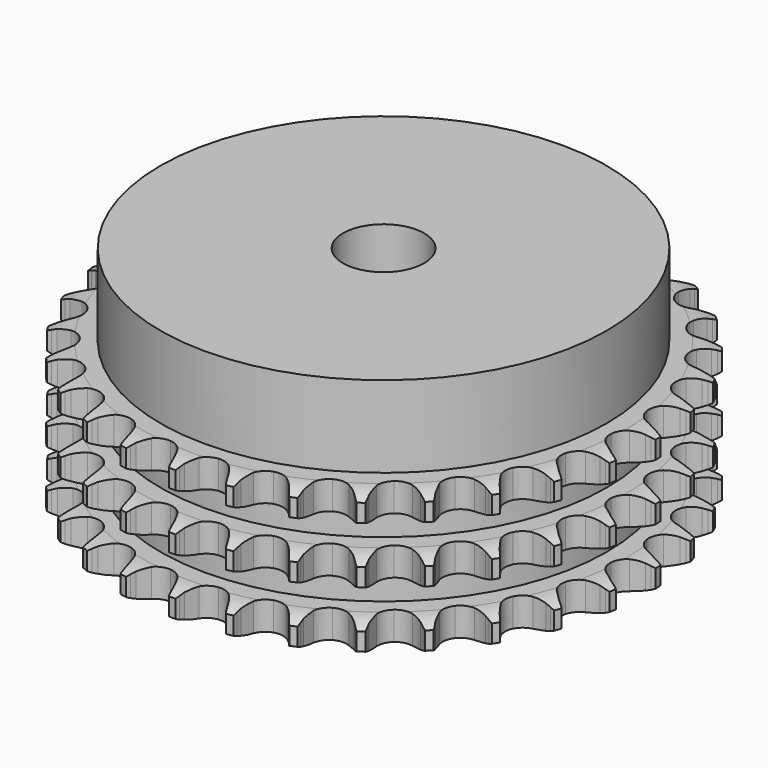
from build123d import *

# Parameters (mm, degrees)
PAD_DEPTH         = 34.9
SKETCH001_R       = 55
PAD001_DEPTH      = 55
SKETCH002_R       = 10
POCKET_DEPTH      = 0.001
POCKET_DEPTH_BACK = 55.001


with BuildPart() as part:
    # Sprocket → Pad (new body)
    with BuildSketch(Plane.XY):
        with BuildLine():
            ThreePointArc((-6.734861, 66.229298), (-5.950048, 65.186321), (-5.374824, 64.014634))
            Line((-5.374824, 64.014634), (-4.959758, 62.918621))
            ThreePointArc((-4.959758, 62.918621), (-4.301269, 61.492886), (-3.448535, 60.174109))
            ThreePointArc((-3.448535, 60.174109), (-1.927238, 58.906685), (0, 58.452308))
            ThreePointArc((0, 58.452308), (1.927238, 58.906685), (3.448535, 60.174109))
            ThreePointArc((3.448535, 60.174109), (4.301269, 61.492886), (4.959758, 62.918621))
            Line((4.959758, 62.918621), (5.374824, 64.014634))
            ThreePointArc((5.374824, 64.014634), (5.950048, 65.186321), (6.734861, 66.229298))
            ThreePointArc((6.734861, 66.229298), (7.293659, 65.049689), (7.62125, 63.786195))
            Line((7.62125, 63.786195), (7.807193, 62.629065))
            ThreePointArc((7.807193, 62.629065), (8.165206, 61.099962), (8.735016, 59.636526))
            ThreePointArc((8.735016, 59.636526), (9.970041, 58.088812), (11.766363, 57.255786))
            ThreePointArc((11.766363, 57.255786), (13.745616, 57.312912), (15.490902, 58.248156))
            Line((15.490902, 58.248156), (17.523657, 60.632281))
            ThreePointArc((17.523657, 60.632281), (17.824206, 61.135561), (18.150852, 61.622307))
            ThreePointArc((18.150852, 61.622307), (18.95016, 62.654217), (19.928858, 63.517862))
            ThreePointArc((19.928858, 63.517862), (20.238764, 62.249915), (20.305309, 60.946342))
            Line((20.305309, 60.946342), (20.254518, 59.775468))
            ThreePointArc((20.254518, 59.775468), (20.297395, 58.205599), (20.560954, 56.657417))
            ThreePointArc((20.560954, 56.657417), (21.459146, 54.892776), (23.05101, 53.715205))
            ThreePointArc((23.05101, 53.715205), (25.001247, 53.372741), (26.89907, 53.937518))
            Line((26.89907, 53.937518), (29.370135, 55.863649))
            ThreePointArc((29.370135, 55.863649), (29.765841, 56.296126), (30.183783, 56.707155))
            ThreePointArc((30.183783, 56.707155), (31.174451, 57.557042), (32.306965, 58.205998))
            ThreePointArc((32.306965, 58.205998), (32.355291, 56.901622), (32.158067, 55.611338))
            Line((32.158067, 55.611338), (31.87262, 54.474656))
            ThreePointArc((31.87262, 54.474656), (31.598607, 52.928291), (31.545125, 51.358747))
            ThreePointArc((31.545125, 51.358747), (32.06971, 49.449423), (33.391946, 47.975517))
            ThreePointArc((33.391946, 47.975517), (35.233323, 47.247484), (37.205987, 47.41867))
            Line((37.205987, 47.41867), (40.014197, 48.807952))
            ThreePointArc((40.014197, 48.807952), (40.488859, 49.151921), (40.980985, 49.470405))
            ThreePointArc((40.980985, 49.470405), (42.122455, 50.103475), (43.362421, 50.511174))
            ThreePointArc((43.362421, 50.511174), (43.147189, 49.223771), (42.694269, 47.999599))
            Line((42.694269, 47.999599), (42.185853, 46.943646))
            ThreePointArc((42.185853, 46.943646), (41.606169, 45.484093), (41.237834, 43.957443))
            ThreePointArc((41.237834, 43.957443), (41.367337, 41.981606), (42.365811, 40.271707))
            ThreePointArc((42.365811, 40.271707), (44.022944, 39.187909), (45.989686, 38.958497))
            Line((45.989686, 38.958497), (49.020072, 39.754051))
            ThreePointArc((49.020072, 39.754051), (49.554259, 39.995431), (50.100421, 40.208331))
            ThreePointArc((50.100421, 40.208331), (51.345962, 40.598666), (52.642614, 40.748416))
            ThreePointArc((52.642614, 40.748416), (52.172635, 39.530692), (51.482563, 38.422751))
            Line((51.482563, 38.422751), (50.771993, 37.490757))
            ThreePointArc((50.771993, 37.490757), (49.910368, 36.177771), (49.242261, 34.756517))
            ThreePointArc((49.242261, 34.756517), (48.97138, 32.795056), (49.605216, 30.919167))
            ThreePointArc((49.605216, 30.919167), (51.01026, 29.523977), (52.890563, 28.903359))
            Line((52.890563, 28.903359), (56.01906, 29.072616))
            ThreePointArc((56.01906, 29.072616), (56.590902, 29.201523), (57.16874, 29.300124))
            ThreePointArc((57.16874, 29.300124), (58.467358, 29.431743), (59.767612, 29.317414))
            ThreePointArc((59.767612, 29.317414), (59.062128, 28.219222), (58.163155, 27.272872))
            Line((58.163155, 27.272872), (57.279521, 26.502992))
            ThreePointArc((57.279521, 26.502992), (56.171232, 25.390326), (55.230705, 24.132655))
            ThreePointArc((55.230705, 24.132655), (54.57053, 22.265873), (54.813776, 20.300794))
            ThreePointArc((54.813776, 20.300794), (55.909209, 18.651329), (57.626093, 17.664913))
            Line((57.626093, 17.664913), (60.724621, 17.200944))
            ThreePointArc((60.724621, 17.200944), (61.310706, 17.212101), (61.896564, 17.192366))
            ThreePointArc((61.896564, 17.192366), (63.195094, 17.059881), (64.445718, 16.686152))
            ThreePointArc((64.445718, 16.686152), (63.533611, 15.752454), (62.46254, 15.006437))
            Line((62.46254, 15.006437), (61.442019, 14.430191))
            ThreePointArc((61.442019, 14.430191), (60.132439, 13.563399), (58.957997, 12.520799))
            ThreePointArc((58.957997, 12.520799), (57.935555, 10.825122), (57.778255, 8.851303))
            ThreePointArc((57.778255, 8.851303), (58.51923, 7.015094), (60.002404, 5.703264))
            Line((60.002404, 5.703264), (62.944109, 4.625063))
            ThreePointArc((62.944109, 4.625063), (63.520443, 4.518014), (64.090336, 4.38075))
            ThreePointArc((64.090336, 4.38075), (65.335616, 3.989585), (66.485408, 3.371758))
            ThreePointArc((66.485408, 3.371758), (65.40402, 2.640779), (64.204702, 2.125638))
            Line((64.204702, 2.125638), (63.089073, 1.766617))
            ThreePointArc((63.089073, 1.766617), (61.631816, 1.181184), (60.271541, 0.39634))
            ThreePointArc((60.271541, 0.39634), (58.928692, -1.05881), (58.377285, -2.960561))
            ThreePointArc((58.377285, -2.960561), (58.733466, -4.908339), (59.92221, -6.491877))
            Line((59.92221, -6.491877), (62.586658, -8.140168))
            ThreePointArc((62.586658, -8.140168), (63.129645, -8.361041), (63.660241, -8.610214))
            ThreePointArc((63.660241, -8.610214), (64.80129, -9.244045), (65.803178, -10.080676))
            ThreePointArc((65.803178, -10.080676), (64.59678, -10.579011), (63.318316, -10.842186))
            Line((63.318316, -10.842186), (62.153253, -10.969283))
            ThreePointArc((62.153253, -10.969283), (60.60798, -11.249388), (59.117562, -11.744345))
            ThreePointArc((59.117562, -11.744345), (57.509281, -12.899395), (56.586342, -14.651219))
            ThreePointArc((56.586342, -14.651219), (56.543147, -16.630825), (57.388794, -18.42124))
            Line((57.388794, -18.42124), (59.666901, -20.57214))
            ThreePointArc((59.666901, -20.57214), (60.154312, -20.897794), (60.623889, -21.248675))
            ThreePointArc((60.623889, -21.248675), (61.613991, -22.099222), (62.426958, -23.120406))
            ThreePointArc((62.426958, -23.120406), (61.144941, -23.365694), (59.83967, -23.366129))
            Line((59.83967, -23.366129), (58.672872, -23.256099))
            ThreePointArc((58.672872, -23.256099), (57.102846, -23.219409), (55.543303, -23.404216))
            ThreePointArc((55.543303, -23.404216), (53.735434, -24.211876), (52.478748, -25.742055))
            ThreePointArc((52.478748, -25.742055), (52.037945, -27.672443), (52.505874, -29.596436))
            Line((52.505874, -29.596436), (54.304375, -32.161886))
            ThreePointArc((54.304375, -32.161886), (54.716255, -32.578989), (55.105588, -33.017212))
            ThreePointArc((55.105588, -33.017212), (55.904208, -34.049655), (56.494971, -35.213584))
            ThreePointArc((56.494971, -35.213584), (55.189821, -35.195783), (53.911182, -34.93346))
            Line((53.911182, -34.93346), (52.790417, -34.590808))
            ThreePointArc((52.790417, -34.590808), (51.259915, -34.238825), (49.695094, -34.105915))
            ThreePointArc((49.695094, -34.105915), (47.761651, -34.533121), (46.222667, -35.779007))
            ThreePointArc((46.222667, -35.779007), (45.402303, -37.581148), (45.473357, -39.559949))
            Line((45.473357, -39.559949), (46.718621, -42.434921))
            ThreePointArc((46.718621, -42.434921), (47.038108, -42.926396), (47.331257, -43.434021))
            ThreePointArc((47.331257, -43.434021), (47.905701, -44.606091), (48.250073, -45.865114))
            ThreePointArc((48.250073, -45.865114), (46.975223, -45.584953), (45.775563, -45.070611))
            Line((45.775563, -45.070611), (44.746715, -44.509365))
            ThreePointArc((44.746715, -44.509365), (43.318396, -43.856499), (41.812362, -43.411313))
            ThreePointArc((41.812362, -43.411313), (39.832501, -43.440576), (38.074225, -44.351164))
            ThreePointArc((38.074225, -44.351164), (36.907886, -45.951276), (36.579155, -47.903874))
            Line((36.579155, -47.903874), (37.220201, -50.970665))
            ThreePointArc((37.220201, -50.970665), (37.434215, -51.516392), (37.61918, -52.072636))
            ThreePointArc((37.61918, -52.072636), (37.945928, -53.336348), (38.029811, -54.638921))
            ThreePointArc((38.029811, -54.638921), (36.837454, -54.107869), (35.765887, -53.362566))
            Line((35.765887, -53.362566), (34.871078, -52.605703))
            ThreePointArc((34.871078, -52.605703), (33.603418, -51.678683), (32.217828, -50.939448))
            ThreePointArc((32.217828, -50.939448), (30.272604, -50.569568), (28.36702, -51.107578))
            ThreePointArc((28.36702, -51.107578), (26.902456, -52.440153), (26.187399, -54.286609))
            Line((26.187399, -54.286609), (26.197982, -57.419664))
            ThreePointArc((26.197982, -57.419664), (26.297761, -57.9973), (26.366968, -58.579392))
            ThreePointArc((26.366968, -58.579392), (26.432645, -59.883009), (26.252605, -61.175804))
            ThreePointArc((26.252605, -61.175804), (25.191555, -60.415603), (24.291952, -59.469851))
            Line((24.291952, -59.469851), (23.567815, -58.548358))
            ThreePointArc((23.567815, -58.548358), (22.512712, -57.385135), (21.304291, -56.382115))
            ThreePointArc((21.304291, -56.382115), (19.473343, -55.628237), (17.498465, -55.771642))
            ThreePointArc((17.498465, -55.771642), (15.795636, -56.782125), (14.723527, -58.446844))
            Line((14.723527, -58.446844), (14.103215, -61.517895))
            ThreePointArc((14.103215, -61.517895), (14.084674, -62.103793), (14.03529, -62.6879))
            ThreePointArc((14.03529, -62.6879), (13.837206, -63.978053), (13.400614, -65.208142))
            ThreePointArc((13.400614, -65.208142), (12.514311, -64.249914), (11.823501, -63.142434))
            Line((11.823501, -63.142434), (11.299683, -62.094036))
            ThreePointArc((11.299683, -62.094036), (10.500332, -60.742234), (9.518555, -59.516492))
            ThreePointArc((9.518555, -59.516492), (7.876841, -58.409478), (5.913522, -58.152408))
            ThreePointArc((5.913522, -58.152408), (4.04214, -58.799429), (2.656872, -60.214257))
            Line((2.656872, -60.214257), (1.43106, -63.097576))
            ThreePointArc((1.43106, -63.097576), (1.294958, -63.667748), (1.129005, -64.229958))
            ThreePointArc((1.129005, -64.229958), (0.67527, -65.453827), (0, -66.570851))
            ThreePointArc((0, -66.570851), (-0.67527, -65.453827), (-1.129005, -64.229958))
            Line((-1.129005, -64.229958), (-1.43106, -63.097576))
            ThreePointArc((-1.43106, -63.097576), (-1.941932, -61.612538), (-2.656872, -60.214257))
            ThreePointArc((-2.656872, -60.214257), (-4.04214, -58.799429), (-5.913522, -58.152408))
            ThreePointArc((-5.913522, -58.152408), (-7.876841, -58.409478), (-9.518555, -59.516492))
            Line((-9.518555, -59.516492), (-11.299683, -62.094036))
            ThreePointArc((-11.299683, -62.094036), (-11.547773, -62.625139), (-11.823501, -63.142434))
            ThreePointArc((-11.823501, -63.142434), (-12.514311, -64.249914), (-13.400614, -65.208142))
            ThreePointArc((-13.400614, -65.208142), (-13.837206, -63.978053), (-14.03529, -62.6879))
            Line((-14.03529, -62.6879), (-14.103215, -61.517895))
            ThreePointArc((-14.103215, -61.517895), (-14.304693, -59.960418), (-14.723527, -58.446844))
            ThreePointArc((-14.723527, -58.446844), (-15.795636, -56.782125), (-17.498465, -55.771642))
            ThreePointArc((-17.498465, -55.771642), (-19.473343, -55.628237), (-21.304291, -56.382115))
            Line((-21.304291, -56.382115), (-23.567815, -58.548358))
            ThreePointArc((-23.567815, -58.548358), (-23.917738, -59.018649), (-24.291952, -59.469851))
            ThreePointArc((-24.291952, -59.469851), (-25.191555, -60.415603), (-26.252605, -61.175804))
            ThreePointArc((-26.252605, -61.175804), (-26.432645, -59.883009), (-26.366968, -58.579392))
            Line((-26.366968, -58.579392), (-26.197982, -57.419664))
            ThreePointArc((-26.197982, -57.419664), (-26.081819, -55.853511), (-26.187399, -54.286609))
            ThreePointArc((-26.187399, -54.286609), (-26.902456, -52.440153), (-28.36702, -51.107578))
            ThreePointArc((-28.36702, -51.107578), (-30.272604, -50.569568), (-32.217828, -50.939448))
            Line((-32.217828, -50.939448), (-34.871078, -52.605703))
            ThreePointArc((-34.871078, -52.605703), (-35.308507, -52.995928), (-35.765887, -53.362566))
            ThreePointArc((-35.765887, -53.362566), (-36.837454, -54.107869), (-38.029811, -54.638921))
            ThreePointArc((-38.029811, -54.638921), (-37.945928, -53.336348), (-37.61918, -52.072636))
            Line((-37.61918, -52.072636), (-37.220201, -50.970665))
            ThreePointArc((-37.220201, -50.970665), (-36.791151, -49.459955), (-36.579155, -47.903874))
            ThreePointArc((-36.579155, -47.903874), (-36.907886, -45.951276), (-38.074225, -44.351164))
            ThreePointArc((-38.074225, -44.351164), (-39.832501, -43.440576), (-41.812362, -43.411313))
            Line((-41.812362, -43.411313), (-44.746715, -44.509365))
            ThreePointArc((-44.746715, -44.509365), (-45.253742, -44.803549), (-45.775563, -45.070611))
            ThreePointArc((-45.775563, -45.070611), (-46.975223, -45.584953), (-48.250073, -45.865114))
            ThreePointArc((-48.250073, -45.865114), (-47.905701, -44.606091), (-47.331257, -43.434021))
            Line((-47.331257, -43.434021), (-46.718621, -42.434921))
            ThreePointArc((-46.718621, -42.434921), (-45.99425, -41.041502), (-45.473357, -39.559949))
            ThreePointArc((-45.473357, -39.559949), (-45.402303, -37.581148), (-46.222667, -35.779007))
            ThreePointArc((-46.222667, -35.779007), (-47.761651, -34.533121), (-49.695094, -34.105915))
            Line((-49.695094, -34.105915), (-52.790417, -34.590808))
            ThreePointArc((-52.790417, -34.590808), (-53.346283, -34.776906), (-53.911182, -34.93346))
            ThreePointArc((-53.911182, -34.93346), (-55.189821, -35.195783), (-56.494971, -35.213584))
            ThreePointArc((-56.494971, -35.213584), (-55.904208, -34.049655), (-55.105588, -33.017212))
            Line((-55.105588, -33.017212), (-54.304375, -32.161886))
            ThreePointArc((-54.304375, -32.161886), (-53.314339, -30.942806), (-52.505874, -29.596436))
            ThreePointArc((-52.505874, -29.596436), (-52.037945, -27.672443), (-52.478748, -25.742055))
            ThreePointArc((-52.478748, -25.742055), (-53.735434, -24.211876), (-55.543303, -23.404216))
            Line((-55.543303, -23.404216), (-58.672872, -23.256099))
            ThreePointArc((-58.672872, -23.256099), (-59.254821, -23.326493), (-59.83967, -23.366129))
            ThreePointArc((-59.83967, -23.366129), (-61.144941, -23.365694), (-62.426958, -23.120406))
            ThreePointArc((-62.426958, -23.120406), (-61.613991, -22.099222), (-60.623889, -21.248675))
            Line((-60.623889, -21.248675), (-59.666901, -20.57214))
            ThreePointArc((-59.666901, -20.57214), (-58.451732, -19.577307), (-57.388794, -18.42124))
            ThreePointArc((-57.388794, -18.42124), (-56.543147, -16.630825), (-56.586342, -14.651219))
            ThreePointArc((-56.586342, -14.651219), (-57.509281, -12.899395), (-59.117562, -11.744345))
            Line((-59.117562, -11.744345), (-62.153253, -10.969283))
            ThreePointArc((-62.153253, -10.969283), (-62.73746, -10.921091), (-63.318316, -10.842186))
            ThreePointArc((-63.318316, -10.842186), (-64.59678, -10.579011), (-65.803178, -10.080676))
            ThreePointArc((-65.803178, -10.080676), (-64.80129, -9.244045), (-63.660241, -8.610214))
            Line((-63.660241, -8.610214), (-62.586658, -8.140168))
            ThreePointArc((-62.586658, -8.140168), (-61.196105, -7.410312), (-59.92221, -6.491877))
            ThreePointArc((-59.92221, -6.491877), (-58.733466, -4.908339), (-58.377285, -2.960561))
            ThreePointArc((-58.377285, -2.960561), (-58.928692, -1.05881), (-60.271541, 0.39634))
            Line((-60.271541, 0.39634), (-63.089073, 1.766617))
            ThreePointArc((-63.089073, 1.766617), (-63.65162, 1.931423), (-64.204702, 2.125638))
            ThreePointArc((-64.204702, 2.125638), (-65.40402, 2.640779), (-66.485408, 3.371758))
            ThreePointArc((-66.485408, 3.371758), (-65.335616, 3.989585), (-64.090336, 4.38075))
            Line((-64.090336, 4.38075), (-62.944109, 4.625063))
            ThreePointArc((-62.944109, 4.625063), (-61.435102, 5.060063), (-60.002404, 5.703264))
            ThreePointArc((-60.002404, 5.703264), (-58.51923, 7.015094), (-57.778255, 8.851303))
            ThreePointArc((-57.778255, 8.851303), (-57.935555, 10.825122), (-58.957997, 12.520799))
            Line((-58.957997, 12.520799), (-61.442019, 14.430191))
            ThreePointArc((-61.442019, 14.430191), (-61.959875, 14.704863), (-62.46254, 15.006437))
            ThreePointArc((-62.46254, 15.006437), (-63.533611, 15.752454), (-64.445718, 16.686152))
            ThreePointArc((-64.445718, 16.686152), (-63.195094, 17.059881), (-61.896564, 17.192366))
            Line((-61.896564, 17.192366), (-60.724621, 17.200944))
            ThreePointArc((-60.724621, 17.200944), (-59.158938, 17.323279), (-57.626093, 17.664913))
            ThreePointArc((-57.626093, 17.664913), (-55.909209, 18.651329), (-54.813776, 20.300794))
            ThreePointArc((-54.813776, 20.300794), (-54.57053, 22.265873), (-55.230705, 24.132655))
            Line((-55.230705, 24.132655), (-57.279521, 26.502992))
            ThreePointArc((-57.279521, 26.502992), (-57.731485, 26.876285), (-58.163155, 27.272872))
            ThreePointArc((-58.163155, 27.272872), (-59.062128, 28.219222), (-59.767612, 29.317414))
            ThreePointArc((-59.767612, 29.317414), (-58.467358, 29.431743), (-57.16874, 29.300124))
            Line((-57.16874, 29.300124), (-56.01906, 29.072616))
            ThreePointArc((-56.01906, 29.072616), (-54.460801, 28.877277), (-52.890563, 28.903359))
            ThreePointArc((-52.890563, 28.903359), (-51.01026, 29.523977), (-49.605216, 30.919167))
            ThreePointArc((-49.605216, 30.919167), (-48.97138, 32.795056), (-49.242261, 34.756517))
            Line((-49.242261, 34.756517), (-50.771993, 37.490757))
            ThreePointArc((-50.771993, 37.490757), (-51.139562, 37.947388), (-51.482563, 38.422751))
            ThreePointArc((-51.482563, 38.422751), (-52.172635, 39.530692), (-52.642614, 40.748416))
            ThreePointArc((-52.642614, 40.748416), (-51.345962, 40.598666), (-50.100421, 40.208331))
            Line((-50.100421, 40.208331), (-49.020072, 39.754051))
            ThreePointArc((-49.020072, 39.754051), (-47.533032, 39.249036), (-45.989686, 38.958497))
            ThreePointArc((-45.989686, 38.958497), (-44.022944, 39.187909), (-42.365811, 40.271707))
            ThreePointArc((-42.365811, 40.271707), (-41.367337, 41.981606), (-41.237834, 43.957443))
            Line((-41.237834, 43.957443), (-42.185853, 46.943646))
            ThreePointArc((-42.185853, 46.943646), (-42.453979, 47.464921), (-42.694269, 47.999599))
            ThreePointArc((-42.694269, 47.999599), (-43.147189, 49.223771), (-43.362421, 50.511174))
            ThreePointArc((-43.362421, 50.511174), (-42.122455, 50.103475), (-40.980985, 49.470405))
            Line((-40.980985, 49.470405), (-40.014197, 48.807952))
            ThreePointArc((-40.014197, 48.807952), (-38.659255, 48.013935), (-37.205987, 47.41867))
            ThreePointArc((-37.205987, 47.41867), (-35.233323, 47.247484), (-33.391946, 47.975517))
            ThreePointArc((-33.391946, 47.975517), (-32.06971, 49.449423), (-31.545125, 51.358747))
            Line((-31.545125, 51.358747), (-31.87262, 54.474656))
            ThreePointArc((-31.87262, 54.474656), (-32.030325, 55.039235), (-32.158067, 55.611338))
            ThreePointArc((-32.158067, 55.611338), (-32.355291, 56.901622), (-32.306965, 58.205998))
            ThreePointArc((-32.306965, 58.205998), (-31.174451, 57.557042), (-30.183783, 56.707155))
            Line((-30.183783, 56.707155), (-29.370135, 55.863649))
            ThreePointArc((-29.370135, 55.863649), (-28.202764, 54.813138), (-26.89907, 53.937518))
            ThreePointArc((-26.89907, 53.937518), (-25.001247, 53.372741), (-23.05101, 53.715205))
            ThreePointArc((-23.05101, 53.715205), (-21.459146, 54.892776), (-20.560954, 56.657417))
            Line((-20.560954, 56.657417), (-20.254518, 59.775468))
            ThreePointArc((-20.254518, 59.775468), (-20.295346, 60.360235), (-20.305309, 60.946342))
            ThreePointArc((-20.305309, 60.946342), (-20.238764, 62.249915), (-19.928858, 63.517862))
            ThreePointArc((-19.928858, 63.517862), (-18.95016, 62.654217), (-18.150852, 61.622307))
            Line((-18.150852, 61.622307), (-17.523657, 60.632281))
            ThreePointArc((-17.523657, 60.632281), (-16.591648, 59.368284), (-15.490902, 58.248156))
            ThreePointArc((-15.490902, 58.248156), (-13.745616, 57.312912), (-11.766363, 57.255786))
            ThreePointArc((-11.766363, 57.255786), (-9.970041, 58.088812), (-8.735016, 59.636526))
            Line((-8.735016, 59.636526), (-7.807193, 62.629065))
            ThreePointArc((-7.807193, 62.629065), (-7.729473, 63.210081), (-7.62125, 63.786195))
            ThreePointArc((-7.62125, 63.786195), (-7.293659, 65.049689), (-6.734861, 66.229298))
        make_face()
    extrude(amount=PAD_DEPTH)

    # Sketch → Groove (revolve, cut)
    with BuildSketch(Plane.XZ):
        with BuildLine():
            ThreePointArc((59.433431, 0), (62.34032, 0.329167), (65.1, 1.3))
            Line((65.1, 1.3), (65.1, 5.7))
            ThreePointArc((65.1, 5.7), (62.34032, 6.670833), (59.433431, 7))
            Line((55, 7), (59.433431, 7))
            Line((55, 7), (55, 13.95))
            Line((55, 13.95), (59.433431, 13.95))
            ThreePointArc((59.433431, 13.95), (62.34032, 14.279167), (65.1, 15.25))
            Line((65.1, 19.65), (65.1, 15.25))
            ThreePointArc((65.1, 19.65), (62.34032, 20.620833), (59.433431, 20.95))
            Line((55, 20.95), (59.433431, 20.95))
            Line((55, 27.9), (55, 20.95))
            Line((59.433431, 27.9), (55, 27.9))
            ThreePointArc((59.433431, 27.9), (62.34032, 28.229167), (65.1, 29.2))
            Line((65.1, 29.2), (65.1, 33.6))
            ThreePointArc((65.1, 33.6), (62.34032, 34.570833), (59.433431, 34.9))
            Line((59.433431, 34.9), (75.1, 34.9))
            Line((75.1, 34.9), (75.1, 0))
            Line((59.433431, 0), (75.1, 0))
        make_face()
    revolve(axis=Axis((0, 0, 0), (0, 0, 1)), mode=Mode.SUBTRACT)

    # Sketch001 → Pad001 (join)
    with BuildSketch(Plane.XY):
        Circle(SKETCH001_R)
    extrude(amount=PAD001_DEPTH)

    # Sketch002 → Pocket (cut, two sides)
    with BuildSketch(Plane.XY) as pocket_sk:
        Circle(SKETCH002_R)
    extrude(amount=-POCKET_DEPTH, mode=Mode.SUBTRACT)
    extrude(pocket_sk.sketch, amount=POCKET_DEPTH_BACK, mode=Mode.SUBTRACT)


solid = part.part
